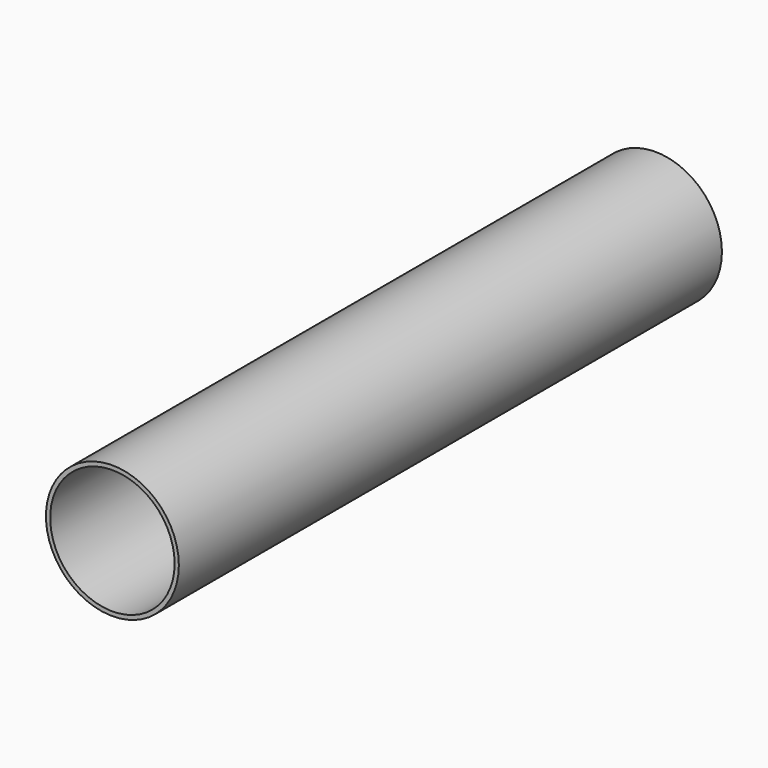
from build123d import *

# Parameters (mm, degrees)
F0_R     = 29.8323
F1_DEPTH = 304.8
F2_R     = 27.94
F3_DEPTH = 304.8


with BuildPart() as f1:
    # F0 (on Front) → F1 (new body)
    with BuildSketch(Plane.XZ):
        Circle(F0_R)
    extrude(amount=-F1_DEPTH)

    # F2 (on Front) → F3 (cut)
    with BuildSketch(Plane.XZ):
        Circle(F2_R)
        Circle(F2_R)
    extrude(amount=-F3_DEPTH, mode=Mode.SUBTRACT)


solid = f1.part
